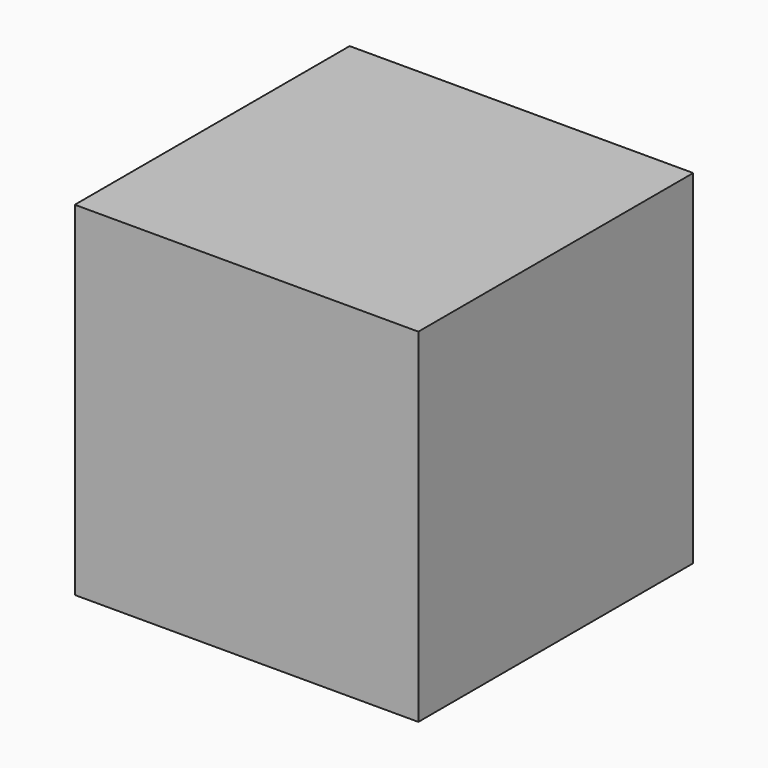
from build123d import *

# Parameters (mm, degrees)
F0_W     = 40
F0_H     = 40
F1_DEPTH = 40
F2_R     = 12.32
F3_DEPTH = 20


with BuildPart() as f1:
    # F0 (on Top) → F1 (new body)
    with BuildSketch(Plane.XY):
        Rectangle(F0_W, F0_H)
    extrude(amount=F1_DEPTH)

    # F2 (on Front) → F3 (cut)
    with BuildSketch(Plane.XZ):
        with Locations((0, 20.027552)):
            Circle(F2_R)
    extrude(amount=-F3_DEPTH, mode=Mode.SUBTRACT)


solid = f1.part
